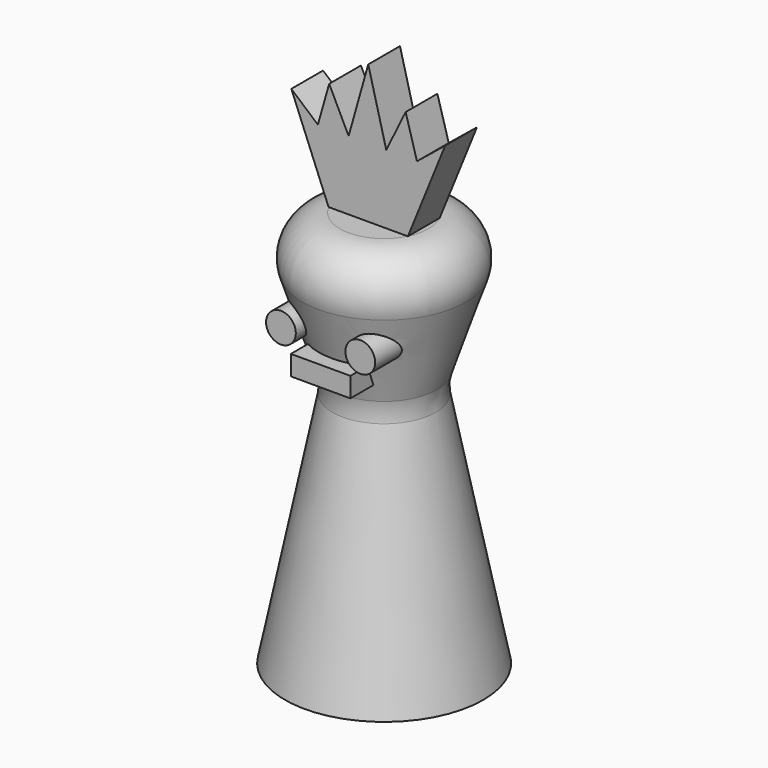
from build123d import *

# Parameters (mm, degrees)
F2_R     = 5.08
F4_DEPTH = 2.54
F5_R     = 1.905
F5_W     = 7.62
F5_H     = 2.54
F6_DEPTH = 10.16


with BuildPart() as f1:
    # F0 (on Front) → F1 (revolve)
    with BuildSketch(Plane.XZ):
        Polygon((12.7, 50.8), (12.7, 0), (25.4, 0), (19.05, 31.75), (25.4, 50.8), align=None)
    revolve(axis=Axis((12.7, 0, 25.4), (0, 0, -1)))

    # F2
    f2_edges = [f1.edges().sort_by_distance(p)[0] for p in [
        (0, 0, 50.8),
        (6.35, 0, 31.75),
    ]]
    fillet(f2_edges, radius=F2_R)

    # F3 (on Front) → F4 (join, symmetric)
    with BuildSketch(Plane.XZ):
        Polygon((2.8545528618, 62.5720224929), (7.62, 50.8), (17.78, 50.8), (22.5454471382, 62.5720224929), (18.9388975427, 59.6384511692), (17.489523992, 64.7184511692), (15.004631497, 59.6384511692), (12.7, 68.5284511692), (10.187403664, 59.6384511692), (7.702511169, 64.7184511692), (6.2521615923, 59.6384511692), align=None)
    extrude(amount=F4_DEPTH, both=True)

    # F5 (on Front) → F6 (join)
    with BuildSketch(Plane.XZ):
        with Locations((7.62, 40.3035629486)):
            Circle(F5_R)
        with Locations((17.78, 40.3035629486)):
            Circle(F5_R)
        with Locations((12.7, 36.4935629486)):
            Rectangle(F5_W, F5_H)
    extrude(amount=F6_DEPTH)


solid = f1.part
